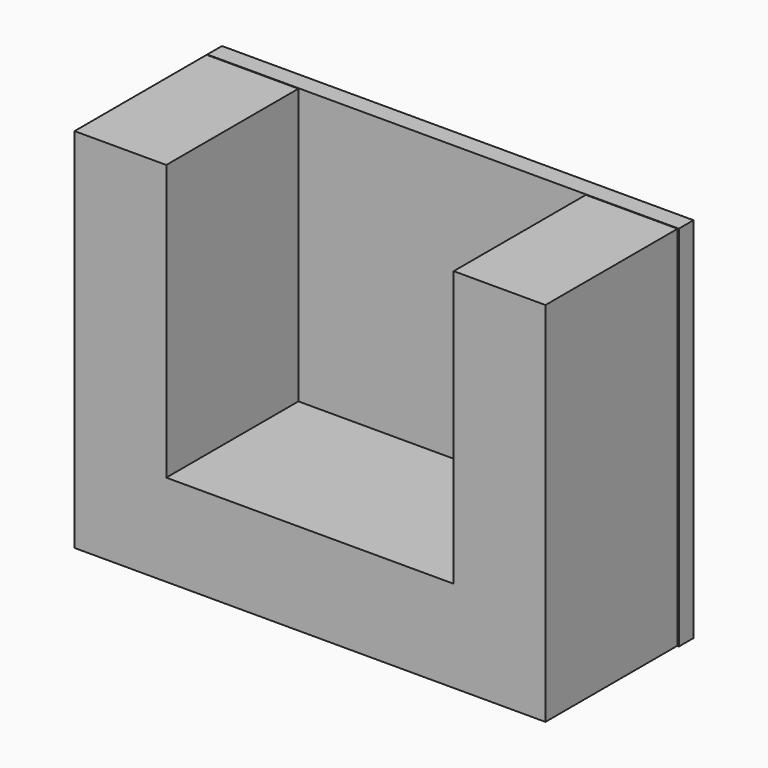
from build123d import *

# Parameters (mm, degrees)
F0_W     = 15.6635074461
F0_H     = 5
F1_DEPTH = 10
F2_W     = 25.6835715845
F2_H     = 20.0516330078
F3_DEPTH = 1


with BuildPart() as f1:
    # F0 (on Front) → F1 (new body)
    with BuildSketch(Plane.XZ):
        Polygon((-29.1881171715, 35.4532431718), (-34.1881171715, 35.4532431718), (-34.1881171715, 15.4532431718), (-29.1881171715, 15.4532431718), (-29.1881171715, 20.4532431718), align=None)
        with Locations((-21.3563634484, 17.9532431718)):
            Rectangle(F0_W, F0_H)
        Polygon((-13.5246097253, 35.4532431718), (-13.5246097253, 20.4532431718), (-13.5246097253, 15.4532431718), (-8.5246097253, 15.4532431718), (-8.5246097253, 35.4532431718), align=None)
    extrude(amount=F1_DEPTH)

    # F2 (on Front) → F3 (join)
    with BuildSketch(Plane.XZ):
        with Locations((-21.3003805839, 25.4549360834)):
            Rectangle(F2_W, F2_H)
    extrude(amount=F3_DEPTH)


solid = f1.part
